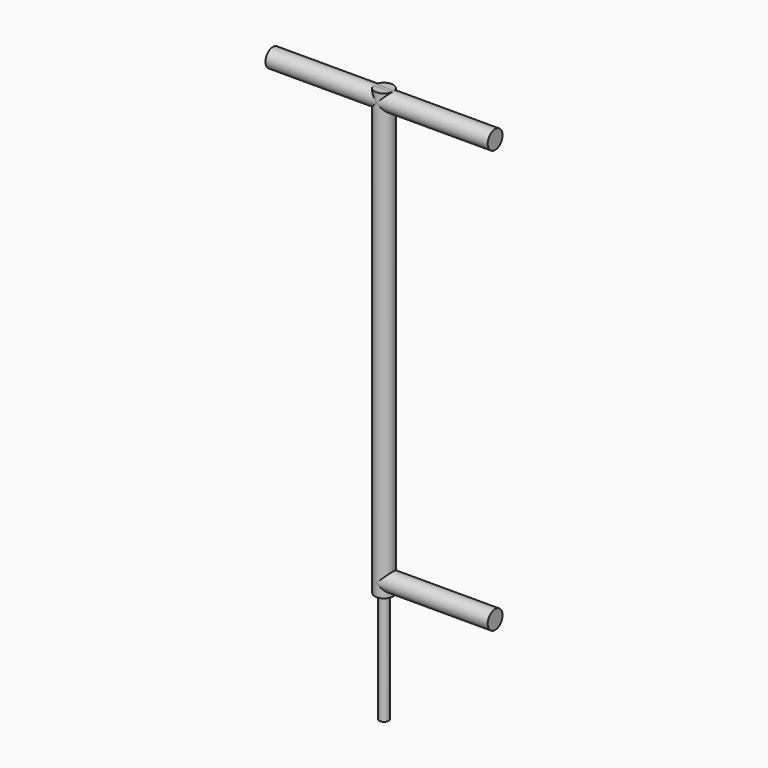
from build123d import *

# Parameters (mm, degrees)
F0_R     = 6.35
F1_DEPTH = 152.4
F2_R     = 6.35
F3_DEPTH = 76.2
F4_R     = 6.35
F5_DEPTH = 76.2
F6_R     = 3.175
F7_DEPTH = 76.2


with BuildPart() as f1:
    # F0 (on Top) → F1 (new body, symmetric)
    with BuildSketch(Plane.XY):
        Circle(F0_R)
    extrude(amount=F1_DEPTH, both=True)

    # F6 (on face) → F7 (join)
    with BuildSketch(Plane(origin=(0, 0, -152.4), x_dir=(1, 0, 0), z_dir=(0, 0, -1))):
        Circle(F6_R)
    extrude(amount=F7_DEPTH)


with BuildPart() as f3:
    # F2 (on Right) → F3 (new body, symmetric)
    with BuildSketch(Plane.YZ):
        with Locations((0, 146.138966)):
            Circle(F2_R)
    extrude(amount=F3_DEPTH, both=True)


with BuildPart() as f5:
    # F4 (on Right) → F5 (new body)
    with BuildSketch(Plane.YZ):
        with Locations((0, -143.647701)):
            Circle(F4_R)
    extrude(amount=F5_DEPTH)


solid = Compound([f1.part, f3.part, f5.part])
